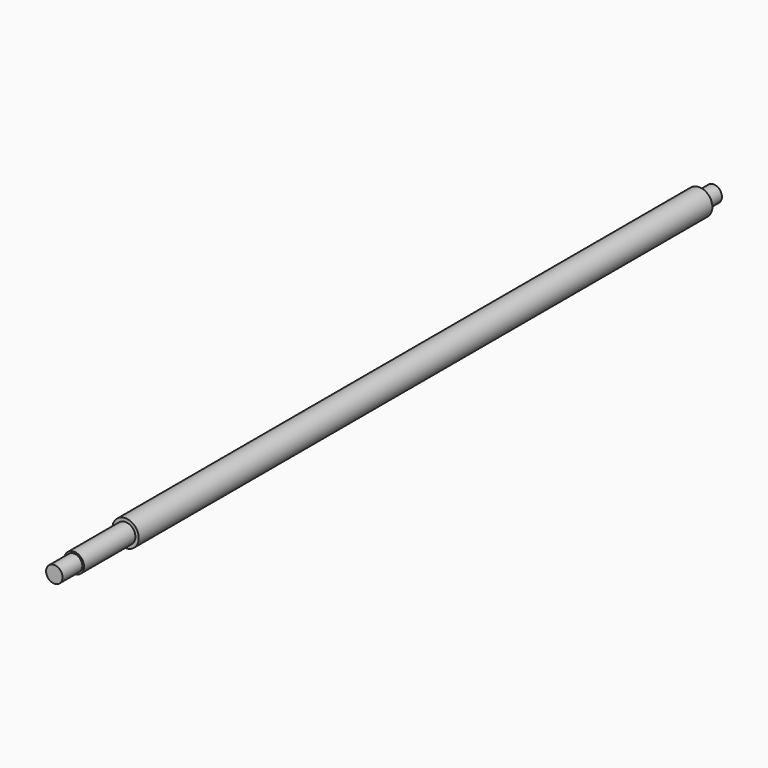
from build123d import *

# Parameters (mm, degrees)
SKETCH_R     = 5
PAD_DEPTH    = 15
SKETCH001_R  = 6
PAD001_DEPTH = 39
SKETCH002_R  = 8
PAD002_DEPTH = 435
SKETCH003_R  = 5
PAD003_DEPTH = 11


with BuildPart() as part:
    # Sketch → Pad (new body)
    with BuildSketch(Plane.XZ):
        Circle(SKETCH_R)
    extrude(amount=-PAD_DEPTH)

    # Sketch001 (on Face3 of Pad) → Pad001 (join)
    with BuildSketch(Plane(origin=(0, 15, 0), x_dir=(1, 0, 0), z_dir=(0, 1, 0))):
        Circle(SKETCH001_R)
    extrude(amount=PAD001_DEPTH)

    # Sketch002 (on Face3 of Pad001) → Pad002 (join)
    with BuildSketch(Plane(origin=(0, 54, 0), x_dir=(1, 0, 0), z_dir=(0, 1, 0))):
        Circle(SKETCH002_R)
    extrude(amount=PAD002_DEPTH)

    # Sketch003 (on Face3 of Pad002) → Pad003 (join)
    with BuildSketch(Plane(origin=(0, 489, 0), x_dir=(1, 0, 0), z_dir=(0, 1, 0))):
        Circle(SKETCH003_R)
    extrude(amount=PAD003_DEPTH)


solid = part.part
